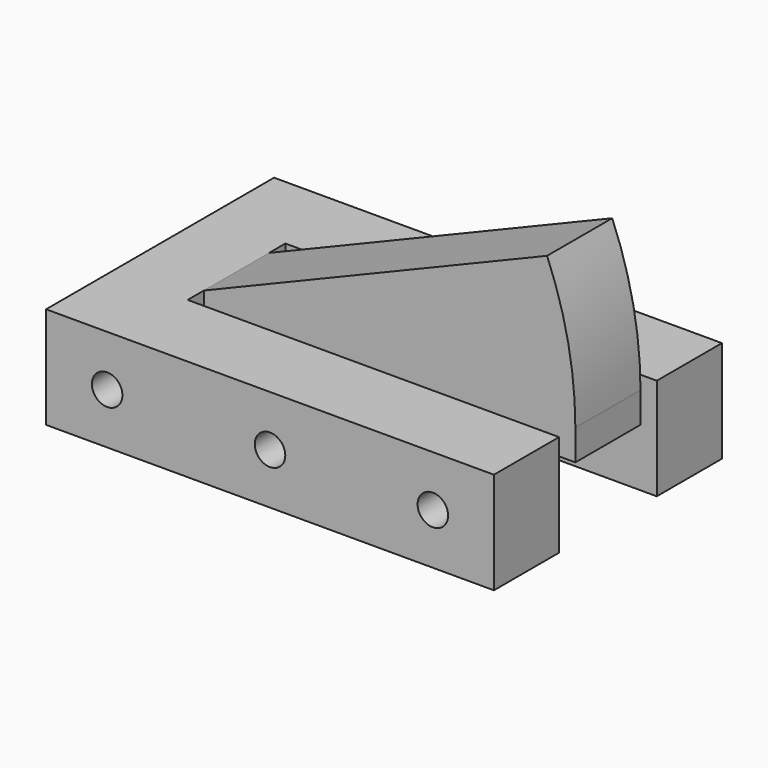
from build123d import *

# Parameters (mm, degrees)
F1_DEPTH = 10
F0_W     = 36.4919372275
F0_H     = 8
F2_DEPTH = 3
F3_ANGLE = 22.5
F4_R     = 1.5
F5_DEPTH = 28.001


with BuildPart() as f1:
    # F0 (on Top) → F1 (new body)
    with BuildSketch(Plane.XY):
        Polygon((26.5120977908, 10), (-17.4879022092, 10), (-17.4879022092, -18), (26.5120977908, -18), (26.5120977908, -10), (-9.9798394367, -10), (-9.9798394367, -8), (-9.9798394367, 0), (-9.9798394367, 2), (26.5120977908, 2), align=None)
    extrude(amount=-F1_DEPTH)

    # F0 (on Top) → F2 (join)
    with BuildSketch(Plane.XY):
        with Locations((8.2661291771, -4)):
            Rectangle(F0_W, F0_H)
    extrude(amount=-F2_DEPTH)

    # F0 (on Top) → F3 (revolve)
    with BuildSketch(Plane.XY):
        with Locations((8.2661291771, -4)):
            Rectangle(F0_W, F0_H)
    revolve(axis=Axis((-9.9798394367, -4, 0), (0, -1, 0)), revolution_arc=F3_ANGLE)

    # F4 (on face) → F5 (cut, through all)
    with BuildSketch(Plane.XZ.offset(18)):
        with Locations((-11.4879022092, -5)):
            Circle(F4_R)
        with Locations((4.5120977908, -5)):
            Circle(F4_R)
        with Locations((20.5120977908, -5)):
            Circle(F4_R)
    extrude(amount=-F5_DEPTH, mode=Mode.SUBTRACT)


solid = f1.part
